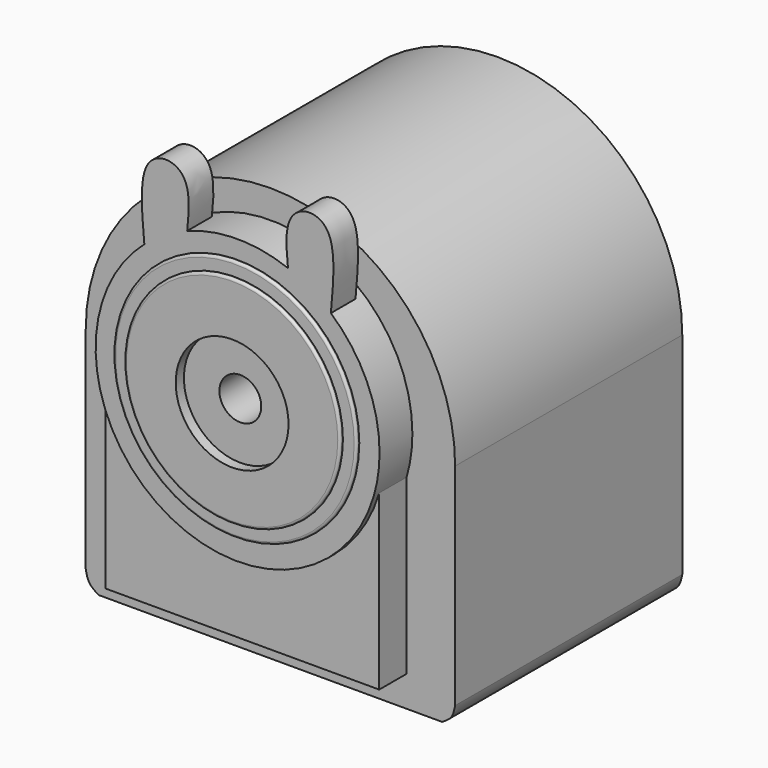
from build123d import *

# Parameters (mm, degrees)
F0_W      = 108
F0_H      = 122
F1_DEPTH  = 54
F2_DEPTH  = 29
F4_DEPTH  = 151.9
F6_DEPTH  = 499.5
F7_DEPTH  = 123.2
F9_DEPTH  = 12
F10_DEPTH = 12
F11_DEPTH = 10
F12_R     = 16.4962669527
F12_R_2   = 6.1166740323
F13_DEPTH = 1
F14_DEPTH = 91.4
F15_R     = 22.1248108366
F15_R_2   = 15.4175951141
F16_DEPTH = 11
F15_R_3   = 13.1715631836
F17_DEPTH = 23
F19_DEPTH = 8.6
F20_R     = 4.0829226414
F21_DEPTH = 15
F23_DEPTH = 9
F15_R_4   = 40.1731715498
F24_DEPTH = 4.5
F15_R_5   = 43.427991149
F25_DEPTH = 1.5
F26_R     = 4.4067019416
F26_R_2   = 4.5
F27_DEPTH = 3.6
F29_DEPTH = 15.5
F30_R     = 35.5790136746
F30_R_2   = 31.5862558004
F31_DEPTH = 1
F32_DEPTH = 2
F33_R     = 0.7
F34_R     = 0.7
F36_DEPTH = 15


with BuildPart() as f1:
    # F0 (on Front) → F1 (new body)
    with BuildSketch(Plane.XZ):
        Rectangle(F0_W, F0_H)
    extrude(amount=F1_DEPTH)

    # F2 (add): a face of the model
    f2_faces = [f1.faces().sort_by_distance(p)[0] for p in [
        (0, 0, 0),
    ]]
    extrude(f2_faces, amount=F2_DEPTH)

    # F3 (on face) → F4 (cut)
    with BuildSketch(Plane.XZ.offset(54)):
        with BuildLine():
            ThreePointArc((-54, 6.0903780618), (6.93e-08, 60.0903779231), (54, 6.0903779231))
            Line((54, 6.0903779231), (54, 61))
            Line((54, 61), (-54, 61))
            Line((-54, 61), (-54, 6.0903780618))
        make_face()
    extrude(amount=-F4_DEPTH, mode=Mode.SUBTRACT)

    # F5 (on face) → F6 (cut)
    with BuildSketch(Plane.XZ.offset(54)):
        with BuildLine():
            Line((-54, -61), (-50.1955114305, -61))
            add(Edge.make_bspline(
                [(-54, -55.5452741683), (-53.7602406186, -56.7337789966), (-53.2812825467, -59.1080092664), (-51.2232987447, -60.3698288041), (-50.1955114305, -61)],
                knots=[0, 0, 0, 0, 0.5005853238, 1, 1, 1, 1], degree=3))
            Line((-54, -55.5452741683), (-54, -61))
        make_face()
    extrude(amount=-F6_DEPTH, mode=Mode.SUBTRACT)

    # F5 (on face) → F7 (cut)
    with BuildSketch(Plane.XZ.offset(54)):
        with BuildLine():
            Line((54, -61), (54, -55.5452741683))
            add(Edge.make_bspline(
                [(54, -55.5452741683), (53.7602406186, -56.7337789966), (53.2812825467, -59.1080092664), (51.2232987447, -60.3698288041), (50.1955114305, -61)],
                knots=[0, 0, 0, 0, 0.5005853238, 1, 1, 1, 1], degree=3))
            Line((50.1955114305, -61), (54, -61))
        make_face()
    extrude(amount=-F7_DEPTH, mode=Mode.SUBTRACT)

    # F8 (on face) → F9 (join)
    with BuildSketch(Plane.XZ.offset(54)):
        with BuildLine():
            ThreePointArc((39.8086430337, -1.387495917), (41.0749843938, 4.415320199), (41.5, 10.3394789621))
            ThreePointArc((41.5, 10.3394789621), (-5.2109829159, 51.511018368), (-40.1913569663, 0))
            Line((-40.1913569663, 0), (39.8086430337, 0))
            Line((39.8086430337, 0), (39.8086430337, -1.387495917))
        make_face()
    extrude(amount=F9_DEPTH)

    # F8 (on face) → F10 (join)
    with BuildSketch(Plane.XZ.offset(54)):
        with BuildLine():
            Line((39.8086430337, 0), (-40.1913569663, 0))
            ThreePointArc((-40.1913569663, 0), (-0.7196552775, -31.1542807649), (39.8086430337, -1.387495917))
            Line((39.8086430337, -1.387495917), (39.8086430337, 0))
        make_face()
    extrude(amount=F10_DEPTH)

    # F8 (on face) → F11 (join)
    with BuildSketch(Plane.XZ.offset(54)):
        with BuildLine():
            ThreePointArc((39.8086430337, -1.387495917), (-0.7196552775, -31.1542807649), (-40.1913569663, 0))
            Line((-40.1913569663, 0), (-40.1913569663, -52))
            Line((-40.1913569663, -52), (39.8086430337, -52))
            Line((39.8086430337, -52), (39.8086430337, -1.387495917))
        make_face()
    extrude(amount=F11_DEPTH)

    # F12 (on face) → F13 (cut)
    with BuildSketch(Plane.XZ.offset(66)):
        with Locations((0, 10.3394789621)):
            Circle(F12_R)
        with Locations((0, 10.3394789621)):
            Circle(F12_R_2, mode=Mode.SUBTRACT)
    extrude(amount=-F13_DEPTH, mode=Mode.SUBTRACT)

    # F14 (cut): a face of the model
    f14_faces = [f1.faces().sort_by_distance(p)[0] for p in [
        (0, -66, 10.3394789621),
    ]]
    extrude(f14_faces, amount=-F14_DEPTH, mode=Mode.SUBTRACT)

    # F15 (on face) → F16 (join)
    with BuildSketch(Plane(origin=(0, 29, 0), x_dir=(-1, 0, 0), z_dir=(0, 1, 0))):
        with Locations((0, 6.0903779231)):
            Circle(F15_R)
        with Locations((0, 6.0903779231)):
            Circle(F15_R_2, mode=Mode.SUBTRACT)
    extrude(amount=F16_DEPTH)

    # F15 (on face) → F17 (join)
    with BuildSketch(Plane(origin=(0, 29, 0), x_dir=(-1, 0, 0), z_dir=(0, 1, 0))):
        with Locations((0, 6.0903779231)):
            Circle(F15_R_3)
    extrude(amount=F17_DEPTH)

    # F18 (on face) → F19 (join)
    with BuildSketch(Plane(origin=(0, 52, 0), x_dir=(-1, 0, 0), z_dir=(0, 1, 0))):
        with BuildLine():
            Line((-4.6740127727, -49.1479374468), (4.6740127727, -49.1479374468))
            Line((4.6740127727, -49.1479374468), (4.6740127727, -6.2239909726))
            ThreePointArc((4.6740127727, -6.2239909726), (0, -7.0811852605), (-4.6740127727, -6.2239909726))
            Line((-4.6740127727, -6.2239909726), (-4.6740127727, -49.1479374468))
        make_face()
        with BuildLine():
            ThreePointArc((-4.6740127727, -6.2239909726), (0, -7.0811852605), (4.6740127727, -6.2239909726))
            Line((4.6740127727, -6.2239909726), (4.6740127727, 5.8071054518))
            Line((4.6740127727, 5.8071054518), (-4.6740127727, 5.8071054518))
            Line((-4.6740127727, 5.8071054518), (-4.6740127727, -6.2239909726))
        make_face()
    extrude(amount=-F19_DEPTH)

    # F20 (on face) → F21 (join)
    with BuildSketch(Plane(origin=(0, 52, 0), x_dir=(-1, 0, 0), z_dir=(0, 1, 0))):
        with Locations((0, -41.6582338512)):
            Circle(F20_R)
    extrude(amount=F21_DEPTH)

    # F22 (on face) → F23 (join)
    with BuildSketch(Plane.XZ.offset(66)):
        with BuildLine():
            add(Edge.make_bspline(
                [(15.4560962692, 43.6573028564), (14.4686944888, 50.6971257137), (12.8866063279, 61.9736640517), (20.5283505241, 66.5729567156), (29.1635128166, 62.8356964232), (28.0135438914, 49.8978007235), (27.2645563712, 41.626760178)],
                knots=[0, 0, 0, 0, 0.3049634383, 0.4886412886, 0.6735297699, 1, 1, 1, 1], degree=3))
            Line((15.4560962692, 43.6573028564), (27.2645563712, 41.626760178))
        make_face()
        with BuildLine():
            Line((-27.2645563712, 41.626760178), (-15.4560962692, 43.6573028564))
            add(Edge.make_bspline(
                [(-15.4560962692, 43.6573028564), (-14.4686944888, 50.6971257137), (-12.8866063279, 61.9736640517), (-20.5283505241, 66.5729567156), (-29.1635128166, 62.8356964232), (-28.0135438914, 49.8978007235), (-27.2645563712, 41.626760178)],
                knots=[0, 0, 0, 0, 0.3049634383, 0.4886412886, 0.6735297699, 1, 1, 1, 1], degree=3))
        make_face()
    extrude(amount=-F23_DEPTH)

    # F15 (on face) → F24 (cut)
    with BuildSketch(Plane(origin=(0, 29, 0), x_dir=(-1, 0, 0), z_dir=(0, 1, 0))):
        with Locations((0, 6.0903779231)):
            Circle(F15_R_4)
        with Locations((0, 6.0903779231)):
            Circle(F15_R, mode=Mode.SUBTRACT)
    extrude(amount=-F24_DEPTH, mode=Mode.SUBTRACT)

    # F15 (on face) → F25 (join)
    with BuildSketch(Plane(origin=(0, 29, 0), x_dir=(-1, 0, 0), z_dir=(0, 1, 0))):
        with Locations((0, 6.0903779231)):
            Circle(F15_R_5)
        with Locations((0, 6.0903779231)):
            Circle(F15_R_4, mode=Mode.SUBTRACT)
    extrude(amount=F25_DEPTH)

    # F26 (on face) → F27 (cut)
    with BuildSketch(Plane(origin=(0, 24.5, 0), x_dir=(-1, 0, 0), z_dir=(0, 1, 0))):
        with Locations((-22.5202348083, 31.0184378177)):
            Circle(F26_R)
        with Locations((22.5202348083, 31.0184378177)):
            Circle(F26_R)
        with Locations((0, -53.1907230616)):
            Circle(F26_R_2)
    extrude(amount=-F27_DEPTH, mode=Mode.SUBTRACT)

    # F28 (on face) → F29 (cut)
    with BuildSketch(Plane(origin=(0, 40, 0), x_dir=(-1, 0, 0), z_dir=(0, 1, 0))):
        with BuildLine():
            ThreePointArc((-15.5234112204, 21.8552426114), (-16.4483781721, 20.8876111126), (-17.3131347174, 19.8658133359))
            Line((-17.3131347174, 19.8658133359), (-14.1053055757, 18.4658732667))
            Line((-14.1053055757, 18.4658732667), (-15.5234112204, 21.8552426114))
        make_face()
        with BuildLine():
            Line((-16.7398220038, 14.5692274714), (-18.9562771318, 17.4994450128))
            ThreePointArc((-18.9562771318, 17.4994450128), (-19.6115443776, 16.3321835101), (-20.1950222321, 15.1274311818))
            Line((-20.1950222321, 15.1274311818), (-16.7398220038, 14.5692274714))
        make_face()
        with BuildLine():
            Line((-18.3225138506, 10.1398243761), (-21.1980504348, 12.4267737694))
            ThreePointArc((-21.1980504348, 12.4267737694), (-21.5424451237, 11.1332255958), (-21.8079822279, 9.8212177355))
            Line((-21.8079822279, 9.8212177355), (-18.3225138506, 10.1398243761))
        make_face()
        with BuildLine():
            Line((-18.7539347668, 5.4559796673), (-22.1078722679, 6.9559634714))
            ThreePointArc((-22.1078722679, 6.9559634714), (-22.119754815, 5.617407016), (-22.0506664961, 4.2805819027))
            Line((-22.0506664961, 4.2805819027), (-18.7539347668, 5.4559796673))
        make_face()
        with BuildLine():
            ThreePointArc((-11.1151522908, 25.2204757825), (-12.2516998731, 24.5132741334), (-13.3433992752, 23.7386342205))
            Line((-13.3433992752, 23.7386342205), (-10.5845009226, 21.5849211755))
            Line((-10.5845009226, 21.5849211755), (-11.1151522908, 25.2204757825))
        make_face()
        with BuildLine():
            ThreePointArc((-6.0084874642, 27.3836945494), (-7.2852022125, 26.9813588307), (-8.5352489829, 26.5025502562))
            Line((-8.5352489829, 26.5025502562), (-6.3986331495, 23.7303899469))
            Line((-6.3986331495, 23.7303899469), (-6.0084874642, 27.3836945494))
        make_face()
        with BuildLine():
            ThreePointArc((-0.5242872725, 28.2089759215), (-1.8609485038, 28.1367863658), (-3.1907976066, 27.9838944335))
            Line((-3.1907976066, 27.9838944335), (-1.810715723, 24.7674718874))
            Line((-1.810715723, 24.7674718874), (-0.5242872725, 28.2089759215))
        make_face()
        with BuildLine():
            ThreePointArc((4.9928558167, 27.6444644347), (3.6802354435, 27.9069569775), (2.3541433183, 28.0895884497))
            Line((2.3541433183, 28.0895884497), (2.8909756316, 24.6310033246))
            Line((2.8909756316, 24.6310033246), (4.9928558167, 27.6444644347))
        make_face()
        with BuildLine():
            ThreePointArc((10.1962794125, 25.7256304221), (8.9901766629, 26.3063116914), (7.7511647606, 26.8129911611))
            Line((7.7511647606, 26.8129911611), (7.4110163551, 23.3295590802))
            Line((7.4110163551, 23.3295590802), (10.1962794125, 25.7256304221))
        make_face()
        with BuildLine():
            ThreePointArc((14.7590332736, 22.5730412815), (13.7352320191, 23.4354249377), (12.6611520141, 24.2343158703))
            Line((12.6611520141, 24.2343158703), (11.4653956652, 20.9449136824))
            Line((11.4653956652, 20.9449136824), (14.7590332736, 22.5730412815))
        make_face()
        with BuildLine():
            ThreePointArc((18.3944227941, 18.3847857831), (17.6172522328, 19.4746850894), (16.7755925222, 20.5155902295))
            Line((16.7755925222, 20.5155902295), (14.7993619988, 17.6269031716))
            Line((14.7993619988, 17.6269031716), (18.3944227941, 18.3847857831))
        make_face()
        with BuildLine():
            ThreePointArc((20.8740230805, 13.4240274232), (20.392315697, 14.6729599978), (19.8359608558, 15.8904754474))
            Line((19.8359608558, 15.8904754474), (17.2034299899, 13.5840103512))
            Line((17.2034299899, 13.5840103512), (20.8740230805, 13.4240274232))
        make_face()
        with BuildLine():
            ThreePointArc((22.0420317275, 8.002468894), (21.8860549683, 9.33195971), (21.6499628172, 10.6495844955))
            Line((21.6499628172, 10.6495844955), (18.5265432048, 9.0702650456))
            Line((18.5265432048, 9.0702650456), (22.0420317275, 8.002468894))
        make_face()
        with BuildLine():
            ThreePointArc((21.8250584561, 2.4607666569), (22.0046129147, 3.7872789167), (22.1036179919, 5.1222218271))
            Line((22.1036179919, 5.1222218271), (18.6855655744, 4.3692824728))
            Line((18.6855655744, 4.3692824728), (21.8250584561, 2.4607666569))
        make_face()
        with BuildLine():
            ThreePointArc((20.236736495, -2.8528737556), (20.7405401043, -1.6126896957), (21.1684215567, -0.3443080332))
            Line((21.1684215567, -0.3443080332), (17.6705051382, -0.223557343))
            Line((17.6705051382, -0.223557343), (20.236736495, -2.8528737556))
        make_face()
        with BuildLine():
            Line((8.559057763, -10.6085759541), (8.629868972, -14.2819713789))
            ThreePointArc((8.629868972, -14.2819713789), (9.8460904065, -13.7227934097), (11.0262695579, -13.09108798))
            Line((11.0262695579, -13.09108798), (8.559057763, -10.6085759541))
        make_face()
        with BuildLine():
            Line((12.4430201798, -7.9553965015), (13.4251430182, -11.4957754226))
            ThreePointArc((13.4251430182, -11.4957754226), (14.4640927139, -10.6517030862), (15.450095615, -9.7463452242))
            Line((15.450095615, -9.7463452242), (12.4430201798, -7.9553965015))
        make_face()
        with BuildLine():
            ThreePointArc((17.3768659544, -7.6045767742), (18.1732628808, -6.5286462398), (18.9031353431, -5.4065229097))
            Line((18.9031353431, -5.4065229097), (15.5451418766, -4.4196693851))
            Line((15.5451418766, -4.4196693851), (17.3768659544, -7.6045767742))
        make_face()
        with BuildLine():
            Line((4.1372982689, -12.2124987201), (3.2923485198, -15.7880977044))
            ThreePointArc((3.2923485198, -15.7880977044), (4.6094220276, -15.5489493106), (5.9096224327, -15.2305886886))
            Line((5.9096224327, -15.2305886886), (4.1372982689, -12.2124987201))
        make_face()
        with BuildLine():
            Line((-0.5444228914, -12.6663844334), (-2.2520422983, -15.9195189427))
            ThreePointArc((-2.2520422983, -15.9195189427), (-0.9168732896, -16.0154266976), (0.4216519961, -16.030414652))
            Line((0.4216519961, -16.030414652), (-0.5444228914, -12.6663844334))
        make_face()
        with BuildLine():
            Line((-5.1919359592, -11.9417137853), (-7.6549290163, -14.6679774142))
            ThreePointArc((-7.6549290163, -14.6679774142), (-6.385558086, -15.0929150807), (-5.0928123863, -15.4403098633))
            Line((-5.0928123863, -15.4403098633), (-5.1919359592, -11.9417137853))
        make_face()
        with BuildLine():
            Line((-9.513220596, -10.0840204977), (-12.5768283914, -12.112112076))
            ThreePointArc((-12.5768283914, -12.112112076), (-11.4530147834, -12.8393792578), (-10.2872766363, -13.4973527766))
            Line((-10.2872766363, -13.4973527766), (-9.513220596, -10.0840204977))
        make_face()
        with BuildLine():
            Line((-16.1285746226, -3.5003264841), (-19.7902751681, -3.8016523705))
            ThreePointArc((-19.7902751681, -3.8016523705), (-19.1558334331, -4.9803627947), (-18.4512704678, -6.1185480199))
            Line((-18.4512704678, -6.1185480199), (-16.1285746226, -3.5003264841))
        make_face()
        with BuildLine():
            Line((-18.0069769893, 0.811996534), (-21.6285751794, 1.4307652499))
            ThreePointArc((-21.6285751794, 1.4307652499), (-21.3071989606, 0.1313069377), (-20.9078262917, -1.1463377901))
            Line((-20.9078262917, -1.1463377901), (-18.0069769893, 0.811996534))
        make_face()
        with BuildLine():
            Line((-13.2367545956, -7.2100302721), (-16.7084793844, -8.4125173471))
            ThreePointArc((-16.7084793844, -8.4125173471), (-15.8008364408, -9.3964171724), (-14.8353534613, -10.3236265315))
            Line((-14.8353534613, -10.3236265315), (-13.2367545956, -7.2100302721))
        make_face()
    extrude(amount=-F29_DEPTH, mode=Mode.SUBTRACT)

    # F30 (on face) → F31 (join)
    with BuildSketch(Plane.XZ.offset(66)):
        with Locations((0, 10.906024836)):
            Circle(F30_R)
        with Locations((0, 10.906024836)):
            Circle(F30_R_2, mode=Mode.SUBTRACT)
    extrude(amount=F31_DEPTH)

    # F32 (add): a face of the model
    f32_faces = [f1.faces().sort_by_distance(p)[0] for p in [
        (-30.6928615737, -66, 10.906024836),
    ]]
    extrude(f32_faces, amount=F32_DEPTH)

    # F33
    f33_edges = [f1.edges().sort_by_distance(p)[0] for p in [
        (-35.579014, -67, 10.906025),
    ]]
    fillet(f33_edges, radius=F33_R)

    # F34
    f34_edges = [f1.edges().sort_by_distance(p)[0] for p in [
        (-31.586256, -68, 10.906025),
    ]]
    fillet(f34_edges, radius=F34_R)

    # F35 (on face) → F36 (cut, through all)
    with BuildSketch(Plane(origin=(0, 67, 0), x_dir=(-1, 0, 0), z_dir=(0, 1, 0))):
        with BuildLine():
            ThreePointArc((3.4106296093, -39.4137154255), (3.0969781082, -38.9975978572), (2.7328819235, -38.6248176767))
            Line((2.7328819235, -38.6248176767), (2.4238649291, -39.575874193))
            Line((2.4238649291, -39.575874193), (3.4106296093, -39.4137154255))
        make_face()
        with BuildLine():
            ThreePointArc((1.4399624863, -37.8376625152), (0.9416253218, -37.6853760575), (0.4279506283, -37.5978009241))
            Line((0.4279506283, -37.5978009241), (0.7369676227, -38.5488574404))
            Line((0.7369676227, -38.5488574404), (1.4399624863, -37.8376625152))
        make_face()
        with BuildLine():
            ThreePointArc((-1.0807213639, -37.7209379988), (-1.5733963329, -37.8906509025), (-2.0404432614, -38.1217315407))
            Line((-2.0404432614, -38.1217315407), (-1.231426267, -38.709516793))
            Line((-1.231426267, -38.709516793), (-1.0807213639, -37.7209379988))
        make_face()
        with BuildLine():
            ThreePointArc((-3.1886063855, -39.1081266743), (-3.4874340662, -39.5350143785), (-3.7294571774, -39.9964858385))
            Line((-3.7294571774, -39.9964858385), (-2.7294571774, -39.9964858385))
            Line((-2.7294571774, -39.9964858385), (-3.1886063855, -39.1081266743))
        make_face()
        with BuildLine():
            Line((-3.1849282168, -41.9181861442), (-4.0785521446, -41.4693696164))
            ThreePointArc((-4.0785521446, -41.4693696164), (-4.0693905198, -41.9903755275), (-3.9939452111, -42.5059713965))
            Line((-3.9939452111, -42.5059713965), (-3.1849282168, -41.9181861442))
        make_face()
        with BuildLine():
            ThreePointArc((4.0829226414, -41.6582338512), (4.0606173562, -41.2320367346), (3.9939452111, -40.8104963059))
            Line((3.9939452111, -40.8104963059), (3.1849282168, -41.3982815582))
            Line((3.1849282168, -41.3982815582), (4.0785521446, -41.847098086))
            ThreePointArc((4.0785521446, -41.847098086), (4.0818298709, -41.7526912496), (4.0829226414, -41.6582338512))
        make_face()
        with BuildLine():
            Line((2.7294571774, -43.3199818638), (3.1886063855, -44.2083410281))
            ThreePointArc((3.1886063855, -44.2083410281), (3.4874340662, -43.7814533239), (3.7294571774, -43.3199818638))
            Line((3.7294571774, -43.3199818638), (2.7294571774, -43.3199818638))
        make_face()
        with BuildLine():
            Line((1.231426267, -44.6069509094), (1.0807213639, -45.5955297035))
            ThreePointArc((1.0807213639, -45.5955297035), (1.5733963329, -45.4258167998), (2.0404432614, -45.1947361617))
            Line((2.0404432614, -45.1947361617), (1.231426267, -44.6069509094))
        make_face()
        with BuildLine():
            Line((-0.7369676227, -44.767610262), (-1.4399624863, -45.4788051872))
            ThreePointArc((-1.4399624863, -45.4788051872), (-0.9416253218, -45.6310916449), (-0.4279506283, -45.7186667783))
            Line((-0.4279506283, -45.7186667783), (-0.7369676227, -44.767610262))
        make_face()
        with BuildLine():
            Line((-2.4238649291, -43.7405935094), (-3.4106296093, -43.9027522769))
            ThreePointArc((-3.4106296093, -43.9027522769), (-3.0969781082, -44.3188698452), (-2.7328819235, -44.6916500257))
            Line((-2.7328819235, -44.6916500257), (-2.4238649291, -43.7405935094))
        make_face()
    extrude(amount=-F36_DEPTH, mode=Mode.SUBTRACT)


solid = f1.part
